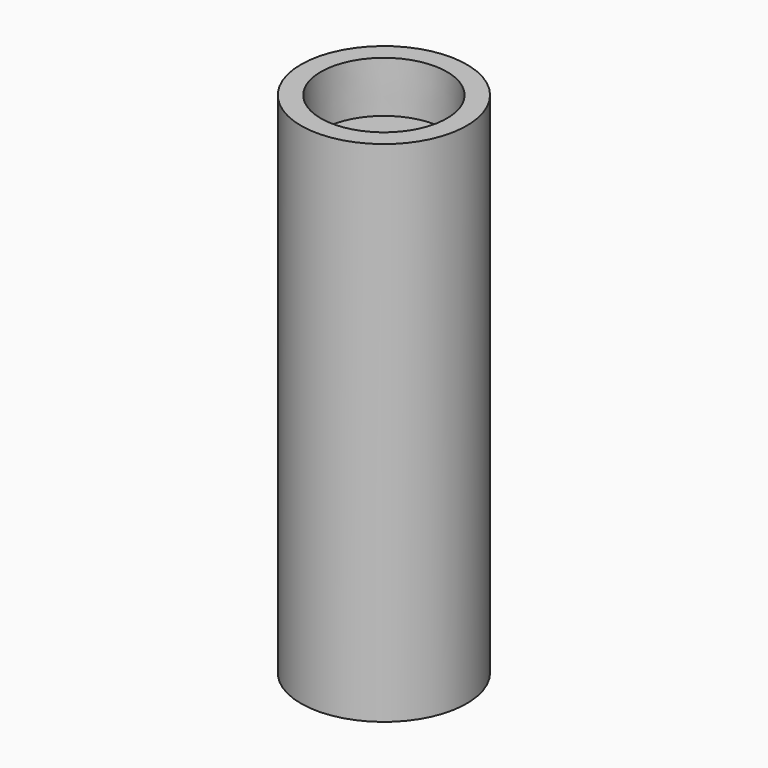
from build123d import *


with BuildPart() as f1:
    # F0 (on Front) → F1 (revolve)
    with BuildSketch(Plane.XZ):
        Polygon((-9.225, 0), (-9.225, 30), (-12.225, 30), (-12.225, -30), (-9.225, -30), align=None)
        Polygon((-9.225, -30), (-4.505, -30), (-4.505, -17.18318), (-9.225, 0), align=None)
        Polygon((-2.275, -17.18318), (-9.225, 0), (-4.505, -17.18318), align=None)
        Polygon((-3.075, 18.308065), (-3.075, 30), (-9.225, 30), (-9.225, 0), (-2.425, 8.714551), align=None)
        Polygon((-12.225, 30), (-9.225, 30), (-9.296466, 37.5), (-12.225, 37.5), align=None)
        Polygon((-9.296466, -37.5), (-9.225, -30), (-12.225, -30), (-12.225, -37.5), align=None)
    revolve(axis=Axis((0, 0, 0), (0, 0, -1)))


solid = f1.part
